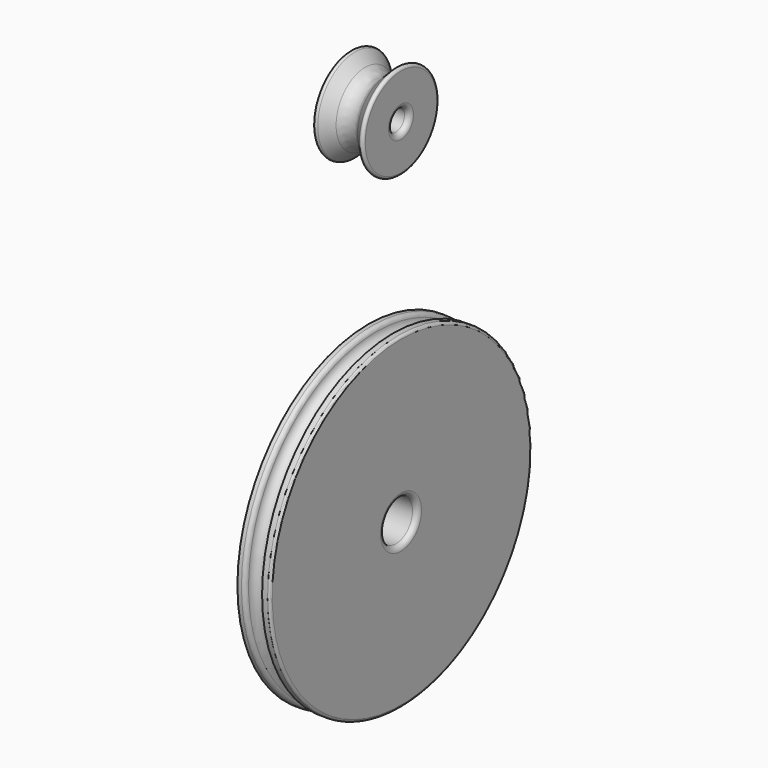
from build123d import *

# Parameters (mm, degrees)
F2_R = 1
F3_R = 0.5
F4_R = 0.8
F7_R = 3
F8_R = 0.5
F9_R = 1


with BuildPart() as f1:
    # F0 (on Front) → F1 (revolve)
    with BuildSketch(Plane.XZ):
        with BuildLine():
            Line((-13, 4.1), (0, 4.1))
            Line((0, 4.1), (0, 32.5))
            Line((0, 32.5), (-1.6, 32.5))
            Line((-1.6, 32.5), (-1.6, 31.8))
            ThreePointArc((-1.6, 31.8), (-3.25, 30.15), (-4.9, 31.8))
            Line((-4.9, 31.8), (-4.9, 32.5))
            Line((-4.9, 32.5), (-6.5, 32.5))
            Line((-6.5, 32.5), (-6.5, 21.7829620438))
            Line((-6.5, 21.7829620438), (-13, 12.5))
            Line((-13, 12.5), (-13, 4.1))
        make_face()
    revolve(axis=Axis((-13.3552476764, 0, 0), (-1, 0, 0)))

    # F2
    f2_edges = [f1.edges().sort_by_distance(p)[0] for p in [
        (0, 0, -4.1),
    ]]
    fillet(f2_edges, radius=F2_R)

    # F3
    f3_edges = [f1.edges().sort_by_distance(p)[0] for p in [
        (0, 0, -32.5),
    ]]
    fillet(f3_edges, radius=F3_R)

    # F4
    f4_edges = [f1.edges().sort_by_distance(p)[0] for p in [
        (-4.9, 0, -32.5),
    ]]
    fillet(f4_edges, radius=F4_R)


with BuildPart() as f6:
    # F5 (on Front) → F6 (revolve)
    with BuildSketch(Plane.XZ):
        Polygon((-10, 72.1), (0, 72.1), (0, 80.1), (-5, 75.1), (-10, 80.1), align=None)
    revolve(axis=Axis((-25.125890044, 0, 70), (-1, 0, 0)))

    # F7
    f7_edges = [f6.edges().sort_by_distance(p)[0] for p in [
        (-5, 0, 64.9),
    ]]
    fillet(f7_edges, radius=F7_R)

    # F8
    f8_edges = [f6.edges().sort_by_distance(p)[0] for p in [
        (0, 0, 59.9),
        (-10, 0, 59.9),
    ]]
    fillet(f8_edges, radius=F8_R)

    # F9
    f9_edges = [f6.edges().sort_by_distance(p)[0] for p in [
        (0, 0, 67.9),
    ]]
    fillet(f9_edges, radius=F9_R)


solid = Compound([f1.part, f6.part])
